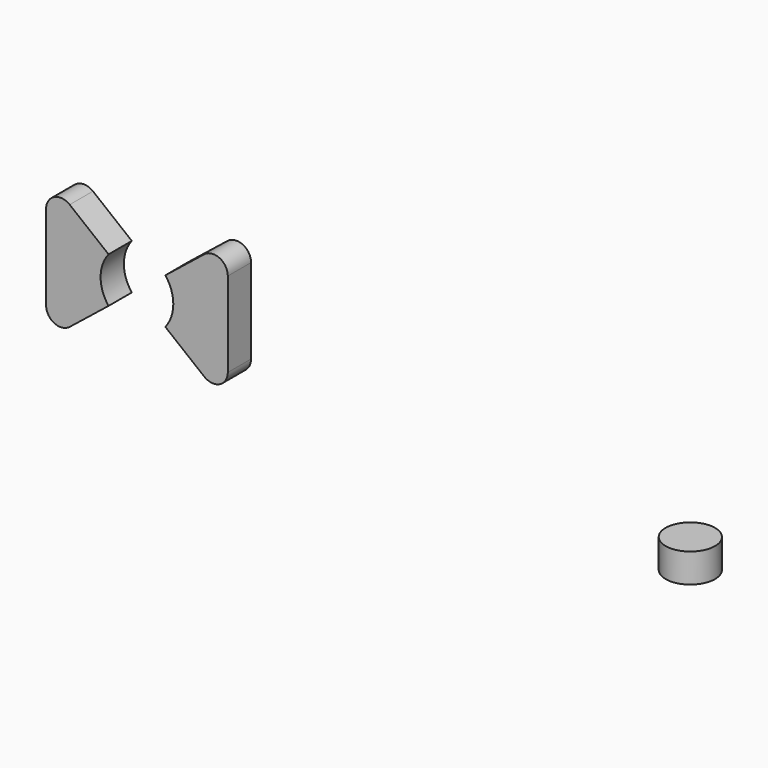
from build123d import *

# Parameters (mm, degrees)
F1_DEPTH = 2.54
F2_R     = 1.27
F3_R     = 2.159
F4_DEPTH = 2.54


with BuildPart() as f1:
    # F0 (on Front) → F1 (new body)
    with BuildSketch(Plane.XZ):
        with BuildLine():
            Line((-36.746302, 22.79944), (-42.204544, 18.432847))
            ThreePointArc((-42.204544, 18.432847), (-41.687782, 17.500387), (-41.508802, 16.44944))
            ThreePointArc((-41.508802, 16.44944), (-41.687782, 15.398493), (-42.204544, 14.466033))
            Line((-42.204544, 14.466033), (-36.746302, 10.09944))
            Line((-36.746302, 10.09944), (-36.746302, 22.79944))
        make_face()
        with BuildLine():
            Line((-47.163061, 18.432847), (-52.621302, 22.79944))
            Line((-52.621302, 22.79944), (-52.621302, 10.09944))
            Line((-52.621302, 10.09944), (-47.163061, 14.466033))
            ThreePointArc((-47.163061, 14.466033), (-47.858802, 16.44944), (-47.163061, 18.432847))
        make_face()
    extrude(amount=F1_DEPTH)

    # F2
    f2_edges = [f1.edges().sort_by_distance(p)[0] for p in [
        (-52.621302, -1.27, 10.09944),
        (-36.746302, -1.27, 10.09944),
        (-36.746302, -1.27, 22.79944),
        (-52.621302, -1.27, 22.79944),
    ]]
    fillet(f2_edges, radius=F2_R)


with BuildPart() as f4:
    # F3 (on Top) → F4 (new body)
    with BuildSketch(Plane.XY):
        with Locations((-9.166194, 13.488539)):
            Circle(F3_R)
    extrude(amount=F4_DEPTH)


solid = Compound([f1.part, f4.part])
